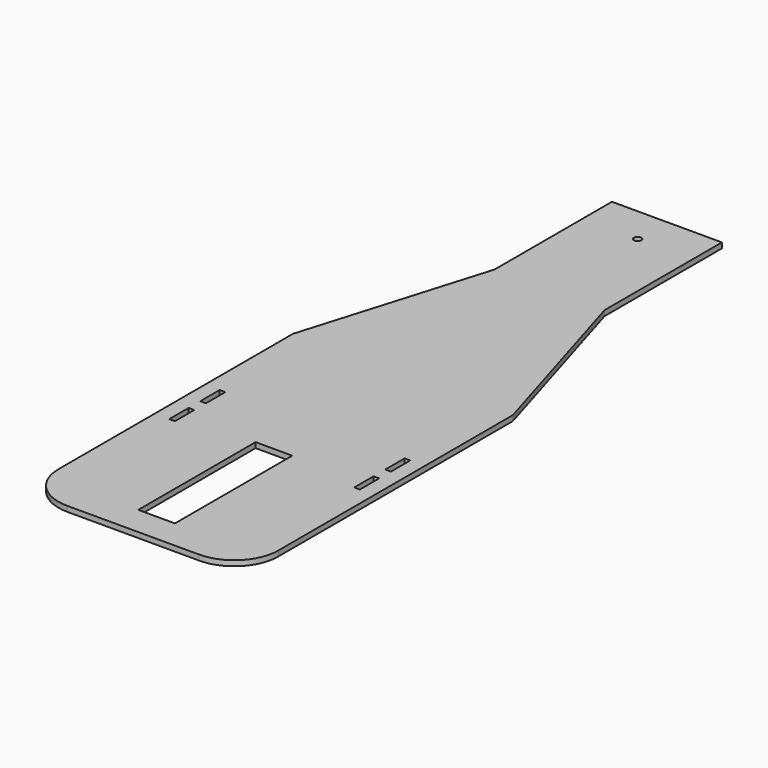
from build123d import *

# Parameters (mm, degrees)
F0_W     = 127
F0_H     = 508
F0_W_2   = 19.558
F0_H_2   = 83.82
F0_R     = 12.7
F1_DEPTH = 18.415


with BuildPart() as f1:
    # F0 (on Top) → F1 (new body)
    with BuildSketch(Plane.XY):
        with BuildLine():
            ThreePointArc((5.986409, 152.4), (50.623336, 44.636927), (158.386409, 0))
            Line((158.386409, 0), (615.586409, 0))
            ThreePointArc((615.586409, 0), (723.349482, 44.636927), (767.986409, 152.4))
            Line((767.986409, 152.4), (767.986409, 1168.4))
            Line((767.986409, 1168.4), (577.486409, 1803.4))
            Line((577.486409, 1803.4), (577.486409, 2311.4))
            Line((577.486409, 2311.4), (196.486409, 2311.4))
            Line((196.486409, 2311.4), (196.486409, 1803.4))
            Line((196.486409, 1803.4), (5.986409, 1168.4))
            Line((5.986409, 1168.4), (5.986409, 152.4))
        make_face()
        with Locations((386.986409, 355.6)):
            Rectangle(F0_W, F0_H, mode=Mode.SUBTRACT)
        with Locations((66.565409, 610.87)):
            Rectangle(F0_W_2, F0_H_2, mode=Mode.SUBTRACT)
        with Locations((66.565409, 745.49)):
            Rectangle(F0_W_2, F0_H_2, mode=Mode.SUBTRACT)
        with Locations((707.407409, 610.87)):
            Rectangle(F0_W_2, F0_H_2, mode=Mode.SUBTRACT)
        with Locations((707.407409, 745.49)):
            Rectangle(F0_W_2, F0_H_2, mode=Mode.SUBTRACT)
        with Locations((386.986409, 2184.4)):
            Circle(F0_R, mode=Mode.SUBTRACT)
    extrude(amount=F1_DEPTH)


solid = f1.part
